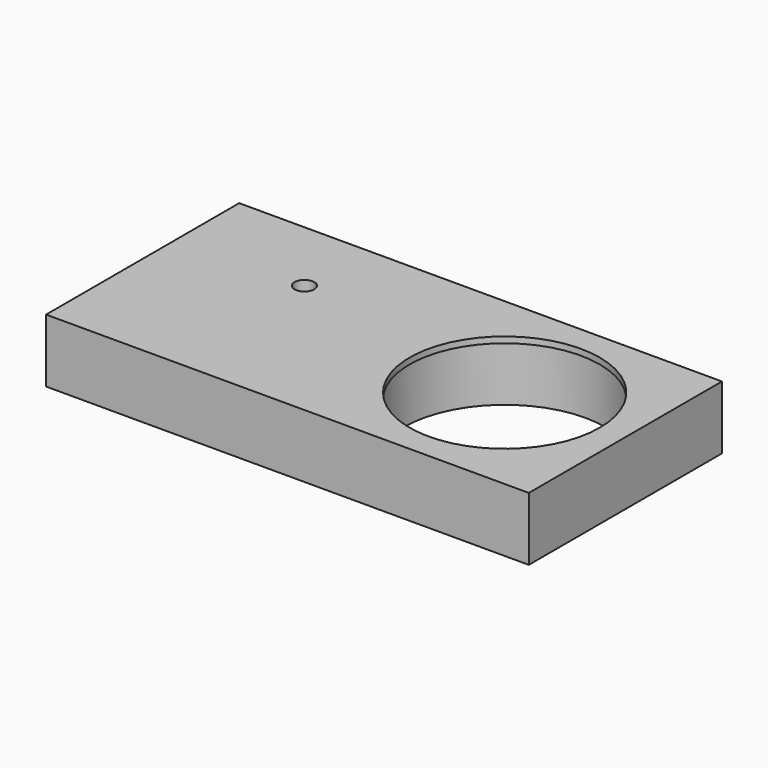
from build123d import *

# Parameters (mm, degrees)
F0_W      = 80
F0_H      = 40
F1_DEPTH  = 9.5
F2_R      = 16.75
F3_DEPTH  = 9.5
F4_W      = 80
F4_H      = 40
F5_DEPTH  = 1
F6_R      = 15.75
F7_DEPTH  = 1
F9_D      = 3.2639
F8_W      = 25.6
F8_H      = 25.6
F10_DEPTH = 5


with BuildPart() as f1:
    # F0 (on Top) → F1 (new body)
    with BuildSketch(Plane.XY):
        Rectangle(F0_W, F0_H)
    extrude(amount=F1_DEPTH)

    # F2 (on face) → F3 (cut)
    with BuildSketch(Plane.XY.offset(9.5)):
        with Locations((20, 0)):
            Circle(F2_R)
    extrude(amount=-F3_DEPTH, mode=Mode.SUBTRACT)

    # F4 (on face) → F5 (join)
    with BuildSketch(Plane.XY.offset(9.5)):
        Rectangle(F4_W, F4_H)
    extrude(amount=F5_DEPTH)

    # F6 (on face) → F7 (cut)
    with BuildSketch(Plane.XY.offset(10.5)):
        with Locations((20, 0)):
            Circle(F6_R)
    extrude(amount=-F7_DEPTH, mode=Mode.SUBTRACT)

    # F9 (through all)
    with Locations(Plane(origin=(0, 0, 0), x_dir=(1, 0, 0), z_dir=(0, 0, -1))):
        with Locations((-18.9480787635, -7.2)):
            Hole(F9_D / 2)

    # F8 (on face) → F10 (cut)
    with BuildSketch(Plane(origin=(0, 0, 0), x_dir=(1, 0, 0), z_dir=(0, 0, -1))):
        with Locations((-18.9480787635, -7.2)):
            Rectangle(F8_W, F8_H)
    extrude(amount=-F10_DEPTH, mode=Mode.SUBTRACT)


solid = f1.part
